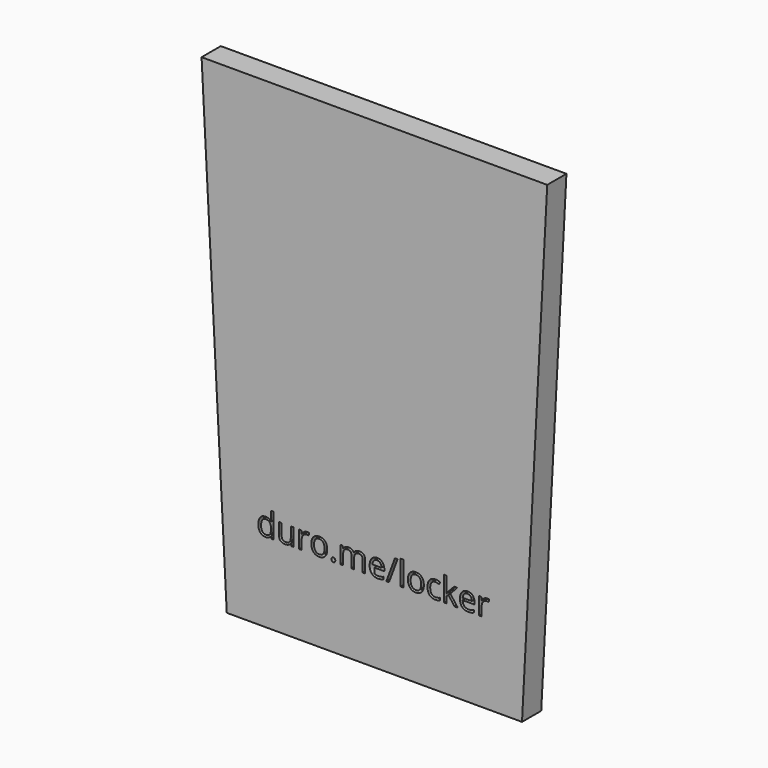
from build123d import *

# Parameters (mm, degrees)
F1_DEPTH = 7
F2_W     = 0.7658614583
F2_H     = 7.1760775948
F3_DEPTH = 2


with BuildPart() as f1:
    # F0 (on Front) → F1 (new body)
    with BuildSketch(Plane.XZ):
        Polygon((60.8623223468, 49.1214316439), (-39.8936776532, 49.1214316439), (-32.5456776532, -91.0867607376), (53.5143223468, -91.0867607376), align=None)
    extrude(amount=F1_DEPTH)

    # F2 (on face) → F3 (cut)
    with BuildSketch(Plane.XZ.offset(7)):
        with BuildLine():
            add(Edge.make_bspline(
                [(10.4843223468, -62.8636571322), (10.8599777761, -62.7154867268), (11.3207362075, -62.7154867268)],
                knots=[0.5461608091, 0.5461608091, 0.5461608091, 1, 1, 1], degree=2))
            Line((10.4843223468, -62.8636571322), (10.4843223468, -63.6192196122))
            add(Edge.make_bspline(
                [(11.3104066695, -63.3573937294), (10.8161838574, -63.3573937294), (10.4843223468, -63.6192196122)],
                knots=[0, 0, 0, 0.8129104659, 0.8129104659, 0.8129104659], degree=2))
            add(Edge.make_bspline(
                [(12.2334246698, -63.742537931), (11.9109955202, -63.3573937294), (11.3104066695, -63.3573937294)],
                knots=[0, 0, 0, 1, 1, 1], degree=2))
            add(Edge.make_bspline(
                [(12.5558538194, -64.8507497907), (12.5558538194, -64.1276821326), (12.2334246698, -63.742537931)],
                knots=[0, 0, 0, 1, 1, 1], degree=2))
            Line((12.5558538194, -64.8507497907), (10.4843223468, -64.8507497907))
            Line((10.4843223468, -64.8507497907), (10.4843223468, -65.4734733657))
            Line((10.4843223468, -65.4734733657), (13.3763142642, -65.4734733657))
            Line((13.3763142642, -65.4734733657), (13.3763142642, -64.9894607292))
            add(Edge.make_bspline(
                [(12.8229461584, -63.3404237742), (13.3763142642, -63.9653608216), (13.3763142642, -64.9894607292)],
                knots=[0, 0, 0, 1, 1, 1], degree=2))
            add(Edge.make_bspline(
                [(11.3207362075, -62.7154867268), (12.2695780527, -62.7154867268), (12.8229461584, -63.3404237742)],
                knots=[0, 0, 0, 1, 1, 1], degree=2))
        make_face()
        with BuildLine():
            Line((10.4843223468, -63.6192196122), (10.4843223468, -62.8636571322))
            add(Edge.make_bspline(
                [(9.7034256905, -63.4348652642), (10.0322497244, -63.0419689002), (10.4843223468, -62.8636571322)],
                knots=[0, 0, 0, 0.5461608091, 0.5461608091, 0.5461608091], degree=2))
            add(Edge.make_bspline(
                [(9.1013611915, -65.3775562274), (9.1013611915, -64.1542438017), (9.7034256905, -63.4348652642)],
                knots=[0, 0, 0, 1, 1, 1], degree=2))
            add(Edge.make_bspline(
                [(9.7499086114, -67.2722886213), (9.1013611915, -66.5890634668), (9.1013611915, -65.3775562274)],
                knots=[0, 0, 0, 1, 1, 1], degree=2))
            add(Edge.make_bspline(
                [(10.4843223468, -67.7720588544), (10.0623900942, -67.6014784428), (9.7499086114, -67.2722886213)],
                knots=[0.5181825211, 0.5181825211, 0.5181825211, 1, 1, 1], degree=2))
            Line((10.4843223468, -67.7720588544), (10.4843223468, -66.955020059))
            add(Edge.make_bspline(
                [(10.3453326932, -66.8244293677), (10.4107324969, -66.8951471486), (10.4843223468, -66.955020059)],
                knots=[0, 0, 0, 0.1533542251, 0.1533542251, 0.1533542251], degree=2))
            add(Edge.make_bspline(
                [(9.8952599672, -65.4734733657), (9.9188703397, -66.3632892797), (10.3453326932, -66.8244293677)],
                knots=[0, 0, 0, 1, 1, 1], degree=2))
            Line((9.8952599672, -65.4734733657), (10.4843223468, -65.4734733657))
            Line((10.4843223468, -65.4734733657), (10.4843223468, -64.8507497907))
            Line((10.4843223468, -64.8507497907), (9.9129677466, -64.8507497907))
            add(Edge.make_bspline(
                [(10.3401679242, -63.7536052931), (9.977896271, -64.1498168568), (9.9129677466, -64.8507497907)],
                knots=[0, 0, 0, 1, 1, 1], degree=2))
            add(Edge.make_bspline(
                [(10.4843223468, -63.6192196122), (10.407945159, -63.6794782563), (10.3401679242, -63.7536052931)],
                knots=[0.8129104659, 0.8129104659, 0.8129104659, 1, 1, 1], degree=2))
        make_face()
        with BuildLine():
            Line((10.4843223468, -66.955020059), (10.4843223468, -65.4734733657))
            Line((10.4843223468, -65.4734733657), (9.8952599672, -65.4734733657))
            add(Edge.make_bspline(
                [(9.8952599672, -65.4734733657), (9.9188703397, -66.3632892797), (10.3453326932, -66.8244293677)],
                knots=[0, 0, 0, 1, 1, 1], degree=2))
            add(Edge.make_bspline(
                [(10.3453326932, -66.8244293677), (10.4107324969, -66.8951471486), (10.4843223468, -66.955020059)],
                knots=[0, 0, 0, 0.1533542251, 0.1533542251, 0.1533542251], degree=2))
        make_face()
        with BuildLine():
            add(Edge.make_bspline(
                [(10.4843223468, -66.955020059), (10.8906009185, -67.2855694558), (11.5465103946, -67.2855694558)],
                knots=[0.1533542251, 0.1533542251, 0.1533542251, 1, 1, 1], degree=2))
            Line((10.4843223468, -66.955020059), (10.4843223468, -67.7720588544))
            add(Edge.make_bspline(
                [(11.5184730773, -67.9555137758), (10.9380998207, -67.9555137758), (10.4843223468, -67.7720588544)],
                knots=[0, 0, 0, 0.5181825211, 0.5181825211, 0.5181825211], degree=2))
            add(Edge.make_bspline(
                [(12.3920568601, -67.8787800652), (12.0305230311, -67.9555137758), (11.5184730773, -67.9555137758)],
                knots=[0, 0, 0, 1, 1, 1], degree=2))
            add(Edge.make_bspline(
                [(13.1593939667, -67.6279198572), (12.7535906892, -67.8020463545), (12.3920568601, -67.8787800652)],
                knots=[0, 0, 0, 1, 1, 1], degree=2))
            Line((13.1593939667, -67.6279198572), (13.1593939667, -66.9446947027))
            add(Edge.make_bspline(
                [(11.5465103946, -67.2855694558), (12.3625438945, -67.2855694558), (13.1593939667, -66.9446947027)],
                knots=[0, 0, 0, 1, 1, 1], degree=2))
        make_face()
        with BuildLine():
            Line((-19.6604994708, -67.1852253727), (-19.6191813189, -67.1852253727))
            Line((-19.6191813189, -67.1852253727), (-19.5173615874, -67.8625479341))
            Line((-19.5173615874, -67.8625479341), (-18.8946380125, -67.8625479341))
            Line((-18.8946380125, -67.8625479341), (-18.8946380125, -60.6864703392))
            Line((-18.8946380125, -60.6864703392), (-19.6604994708, -60.6864703392))
            Line((-19.6604994708, -60.6864703392), (-19.6604994708, -62.7435240442))
            Line((-19.6604994708, -62.7435240442), (-19.6413160431, -63.0991552801))
            Line((-19.6413160431, -63.0991552801), (-19.6088517809, -63.4636404057))
            Line((-19.6088517809, -63.4636404057), (-19.6693533605, -63.4636404057))
            add(Edge.make_bspline(
                [(-21.2468213738, -62.7154867268), (-20.2182945213, -62.7154867268), (-19.6693533605, -63.4636404057)],
                knots=[0, 0, 0, 1, 1, 1], degree=2))
            add(Edge.make_bspline(
                [(-22.7873981801, -63.407565771), (-22.2340300744, -62.7154867268), (-21.2468213738, -62.7154867268)],
                knots=[0, 0, 0, 1, 1, 1], degree=2))
            add(Edge.make_bspline(
                [(-23.3407662858, -65.34951891), (-23.3407662858, -64.0996448152), (-22.7873981801, -63.407565771)],
                knots=[0, 0, 0, 1, 1, 1], degree=2))
            add(Edge.make_bspline(
                [(-22.7896116525, -67.2774533903), (-23.3407662858, -66.5993930048), (-23.3407662858, -65.34951891)],
                knots=[0, 0, 0, 1, 1, 1], degree=2))
            add(Edge.make_bspline(
                [(-21.2468213738, -67.9555137758), (-22.2384570192, -67.9555137758), (-22.7896116525, -67.2774533903)],
                knots=[0, 0, 0, 1, 1, 1], degree=2))
            add(Edge.make_bspline(
                [(-19.6604994708, -67.1852253727), (-20.190257204, -67.9555137758), (-21.2468213738, -67.9555137758)],
                knots=[0, 0, 0, 1, 1, 1], degree=2))
        make_face()
        with BuildLine():
            add(Edge.make_bspline(
                [(-21.1494285872, -67.3136067732), (-20.3658593495, -67.3136067732), (-20.0131794101, -66.8871444197)],
                knots=[0, 0, 0, 1, 1, 1], degree=2))
            add(Edge.make_bspline(
                [(-22.1919740984, -66.8200024229), (-21.8370806866, -67.3136067732), (-21.1494285872, -67.3136067732)],
                knots=[0, 0, 0, 1, 1, 1], degree=2))
            add(Edge.make_bspline(
                [(-22.5468675101, -65.3583727997), (-22.5468675101, -66.3263980726), (-22.1919740984, -66.8200024229)],
                knots=[0, 0, 0, 1, 1, 1], degree=2))
            add(Edge.make_bspline(
                [(-22.1897606259, -63.8805110454), (-22.5468675101, -64.4036283613), (-22.5468675101, -65.3583727997)],
                knots=[0, 0, 0, 1, 1, 1], degree=2))
            add(Edge.make_bspline(
                [(-21.1582824769, -63.3573937294), (-21.8326537417, -63.3573937294), (-22.1897606259, -63.8805110454)],
                knots=[0, 0, 0, 1, 1, 1], degree=2))
            add(Edge.make_bspline(
                [(-20.017606355, -63.8163203451), (-20.3747132392, -63.3573937294), (-21.1582824769, -63.3573937294)],
                knots=[0, 0, 0, 1, 1, 1], degree=2))
            add(Edge.make_bspline(
                [(-19.6604994708, -65.34951891), (-19.6604994708, -64.2752469608), (-20.017606355, -63.8163203451)],
                knots=[0, 0, 0, 1, 1, 1], degree=2))
            Line((-19.6604994708, -65.34951891), (-19.6604994708, -65.5103645727))
            add(Edge.make_bspline(
                [(-20.0131794101, -66.8871444197), (-19.6604994708, -66.4606820663), (-19.6604994708, -65.5103645727)],
                knots=[0, 0, 0, 1, 1, 1], degree=2))
        make_face(mode=Mode.SUBTRACT)
        with BuildLine():
            Line((-16.5513085408, -66.0873430509), (-16.5513085408, -62.8084525686))
            Line((-16.5513085408, -62.8084525686), (-17.3260238888, -62.8084525686))
            Line((-17.3260238888, -62.8084525686), (-17.3260238888, -66.1153803683))
            add(Edge.make_bspline(
                [(-16.8678350973, -67.5172462361), (-17.3260238888, -67.0789786964), (-17.3260238888, -66.1153803683)],
                knots=[0, 0, 0, 1, 1, 1], degree=2))
            add(Edge.make_bspline(
                [(-15.4873661296, -67.9555137758), (-16.4096463058, -67.9555137758), (-16.8678350973, -67.5172462361)],
                knots=[0, 0, 0, 1, 1, 1], degree=2))
            add(Edge.make_bspline(
                [(-14.5340973395, -67.7570390819), (-14.9517058033, -67.9555137758), (-15.4873661296, -67.9555137758)],
                knots=[0, 0, 0, 1, 1, 1], degree=2))
            add(Edge.make_bspline(
                [(-13.8818607989, -67.1852253727), (-14.1164888757, -67.558564388), (-14.5340973395, -67.7570390819)],
                knots=[0, 0, 0, 1, 1, 1], degree=2))
            Line((-13.8818607989, -67.1852253727), (-13.840542647, -67.1852253727))
            Line((-13.840542647, -67.1852253727), (-13.7298690259, -67.8625479341))
            Line((-13.7298690259, -67.8625479341), (-13.0982915612, -67.8625479341))
            Line((-13.0982915612, -67.8625479341), (-13.0982915612, -62.8084525686))
            Line((-13.0982915612, -62.8084525686), (-13.8641530195, -62.8084525686))
            Line((-13.8641530195, -62.8084525686), (-13.8641530195, -65.464619476))
            add(Edge.make_bspline(
                [(-14.2301137934, -66.8805040025), (-13.8641530195, -66.4474012317), (-13.8641530195, -65.464619476)],
                knots=[0, 0, 0, 1, 1, 1], degree=2))
            add(Edge.make_bspline(
                [(-15.389973343, -67.3136067732), (-14.5960745673, -67.3136067732), (-14.2301137934, -66.8805040025)],
                knots=[0, 0, 0, 1, 1, 1], degree=2))
            add(Edge.make_bspline(
                [(-16.2701975431, -67.0096232271), (-15.9890865454, -67.3136067732), (-15.389973343, -67.3136067732)],
                knots=[0, 0, 0, 1, 1, 1], degree=2))
            add(Edge.make_bspline(
                [(-16.5513085408, -66.0873430509), (-16.5513085408, -66.7056396811), (-16.2701975431, -67.0096232271)],
                knots=[0, 0, 0, 1, 1, 1], degree=2))
        make_face()
        with BuildLine():
            add(Edge.make_bspline(
                [(-9.1686401865, -62.7154867268), (-8.8321923783, -62.7154867268), (-8.5651000393, -62.7715613615)],
                knots=[0, 0, 0, 1, 1, 1], degree=2))
            add(Edge.make_bspline(
                [(-10.0407483211, -62.98331689), (-9.6437989333, -62.7154867268), (-9.1686401865, -62.7154867268)],
                knots=[0, 0, 0, 1, 1, 1], degree=2))
            add(Edge.make_bspline(
                [(-10.7180708825, -63.7440135793), (-10.437697709, -63.2511470532), (-10.0407483211, -62.98331689)],
                knots=[0, 0, 0, 1, 1, 1], degree=2))
            Line((-10.7180708825, -63.7440135793), (-10.7549620896, -63.7440135793))
            Line((-10.7549620896, -63.7440135793), (-10.8435009865, -62.8084525686))
            Line((-10.8435009865, -62.8084525686), (-11.4750784511, -62.8084525686))
            Line((-11.4750784511, -62.8084525686), (-11.4750784511, -67.8625479341))
            Line((-11.4750784511, -67.8625479341), (-10.7092169928, -67.8625479341))
            Line((-10.7092169928, -67.8625479341), (-10.7092169928, -65.1503063919))
            add(Edge.make_bspline(
                [(-10.2739007497, -63.910024011), (-10.7092169928, -64.4080553062), (-10.7092169928, -65.1503063919)],
                knots=[0, 0, 0, 1, 1, 1], degree=2))
            add(Edge.make_bspline(
                [(-9.2247148213, -63.4119927159), (-9.8385845065, -63.4119927159), (-10.2739007497, -63.910024011)],
                knots=[0, 0, 0, 1, 1, 1], degree=2))
            add(Edge.make_bspline(
                [(-8.6713467155, -63.4813481851), (-8.9841841513, -63.4119927159), (-9.2247148213, -63.4119927159)],
                knots=[0, 0, 0, 1, 1, 1], degree=2))
            Line((-8.6713467155, -63.4813481851), (-8.5651000393, -62.7715613615))
        make_face()
        with BuildLine():
            add(Edge.make_bspline(
                [(-3.2571931693, -65.3303354823), (-3.2571931693, -66.5669287426), (-3.8791789201, -67.2612212592)],
                knots=[0, 0, 0, 1, 1, 1], degree=2))
            add(Edge.make_bspline(
                [(-3.8821302167, -63.4215844297), (-3.2571931693, -64.1276821326), (-3.2571931693, -65.3303354823)],
                knots=[0, 0, 0, 1, 1, 1], degree=2))
            add(Edge.make_bspline(
                [(-5.5665827305, -62.7154867268), (-4.5070672641, -62.7154867268), (-3.8821302167, -63.4215844297)],
                knots=[0, 0, 0, 1, 1, 1], degree=2))
            add(Edge.make_bspline(
                [(-7.2827616823, -63.4053522986), (-6.6644650522, -62.7154867268), (-5.5665827305, -62.7154867268)],
                knots=[0, 0, 0, 1, 1, 1], degree=2))
            add(Edge.make_bspline(
                [(-7.9010583124, -65.3303354823), (-7.9010583124, -64.0952178704), (-7.2827616823, -63.4053522986)],
                knots=[0, 0, 0, 1, 1, 1], degree=2))
            add(Edge.make_bspline(
                [(-7.6147825457, -66.7233474604), (-7.9010583124, -66.1286612028), (-7.9010583124, -65.3303354823)],
                knots=[0, 0, 0, 1, 1, 1], degree=2))
            add(Edge.make_bspline(
                [(-6.8031759907, -67.6367737469), (-7.328506779, -67.318033718), (-7.6147825457, -66.7233474604)],
                knots=[0, 0, 0, 1, 1, 1], degree=2))
            add(Edge.make_bspline(
                [(-5.5990469927, -67.9555137758), (-6.2778452023, -67.9555137758), (-6.8031759907, -67.6367737469)],
                knots=[0, 0, 0, 1, 1, 1], degree=2))
            add(Edge.make_bspline(
                [(-3.8791789201, -67.2612212592), (-4.5011646709, -67.9555137758), (-5.5990469927, -67.9555137758)],
                knots=[0, 0, 0, 1, 1, 1], degree=2))
        make_face()
        with BuildLine():
            add(Edge.make_bspline(
                [(-7.1071595367, -65.3303354823), (-7.1071595367, -66.2998364035), (-6.7198018627, -66.8067215884)],
                knots=[0, 0, 0, 1, 1, 1], degree=2))
            add(Edge.make_bspline(
                [(-6.7242288076, -63.8598519694), (-7.1071595367, -64.3534563197), (-7.1071595367, -65.3303354823)],
                knots=[0, 0, 0, 1, 1, 1], degree=2))
            add(Edge.make_bspline(
                [(-5.590193103, -63.3662476191), (-6.3412980784, -63.3662476191), (-6.7242288076, -63.8598519694)],
                knots=[0, 0, 0, 1, 1, 1], degree=2))
            add(Edge.make_bspline(
                [(-4.4391874431, -63.8664923867), (-4.8287585895, -63.3662476191), (-5.590193103, -63.3662476191)],
                knots=[0, 0, 0, 1, 1, 1], degree=2))
            add(Edge.make_bspline(
                [(-4.0496162967, -65.3303354823), (-4.0496162967, -64.3667371543), (-4.4391874431, -63.8664923867)],
                knots=[0, 0, 0, 1, 1, 1], degree=2))
            add(Edge.make_bspline(
                [(-4.4391874431, -66.8089350608), (-4.0496162967, -66.3042633484), (-4.0496162967, -65.3303354823)],
                knots=[0, 0, 0, 1, 1, 1], degree=2))
            add(Edge.make_bspline(
                [(-5.5813392133, -67.3136067732), (-4.8287585895, -67.3136067732), (-4.4391874431, -66.8089350608)],
                knots=[0, 0, 0, 1, 1, 1], degree=2))
            add(Edge.make_bspline(
                [(-6.7198018627, -66.8067215884), (-6.3324441888, -67.3136067732), (-5.5813392133, -67.3136067732)],
                knots=[0, 0, 0, 1, 1, 1], degree=2))
        make_face(mode=Mode.SUBTRACT)
        with BuildLine():
            add(Edge.make_bspline(
                [(-2.0250268539, -67.3741083528), (-2.0250268539, -67.0642222136), (-1.884102443, -66.9055900233)],
                knots=[0, 0, 0, 1, 1, 1], degree=2))
            add(Edge.make_bspline(
                [(-1.8708216085, -67.8514805719), (-2.0250268539, -67.7061292162), (-2.0250268539, -67.3741083528)],
                knots=[0, 0, 0, 1, 1, 1], degree=2))
            add(Edge.make_bspline(
                [(-1.4805126379, -67.9968319277), (-1.716616363, -67.9968319277), (-1.8708216085, -67.8514805719)],
                knots=[0, 0, 0, 1, 1, 1], degree=2))
            add(Edge.make_bspline(
                [(-1.0658554707, -67.8352484408), (-1.2178472437, -67.9968319277), (-1.4805126379, -67.9968319277)],
                knots=[0, 0, 0, 1, 1, 1], degree=2))
            add(Edge.make_bspline(
                [(-0.9138636977, -67.3741083528), (-0.9138636977, -67.673664954), (-1.0658554707, -67.8352484408)],
                knots=[0, 0, 0, 1, 1, 1], degree=2))
            add(Edge.make_bspline(
                [(-1.0636419983, -66.9055900233), (-0.9138636977, -67.0642222136), (-0.9138636977, -67.3741083528)],
                knots=[0, 0, 0, 1, 1, 1], degree=2))
            add(Edge.make_bspline(
                [(-1.4805126379, -66.7469578329), (-1.2134202989, -66.7469578329), (-1.0636419983, -66.9055900233)],
                knots=[0, 0, 0, 1, 1, 1], degree=2))
            add(Edge.make_bspline(
                [(-1.884102443, -66.9055900233), (-1.7431780321, -66.7469578329), (-1.4805126379, -66.7469578329)],
                knots=[0, 0, 0, 1, 1, 1], degree=2))
        make_face()
        with BuildLine():
            Line((7.04135619, -64.574803562), (7.04135619, -67.8625479341))
            Line((7.04135619, -67.8625479341), (7.805742, -67.8625479341))
            Line((7.805742, -67.8625479341), (7.805742, -64.5659496723))
            add(Edge.make_bspline(
                [(7.3792796466, -63.155967739), (7.805742, -63.5964487511), (7.805742, -64.5659496723)],
                knots=[0, 0, 0, 1, 1, 1], degree=2))
            add(Edge.make_bspline(
                [(6.0954656413, -62.7154867268), (6.9528172931, -62.7154867268), (7.3792796466, -63.155967739)],
                knots=[0, 0, 0, 1, 1, 1], degree=2))
            add(Edge.make_bspline(
                [(5.1178486546, -62.9464256829), (5.5465244805, -62.7154867268), (6.0954656413, -62.7154867268)],
                knots=[0, 0, 0, 1, 1, 1], degree=2))
            add(Edge.make_bspline(
                [(4.4633986415, -63.5743140269), (4.6891728287, -63.1773646391), (5.1178486546, -62.9464256829)],
                knots=[0, 0, 0, 1, 1, 1], degree=2))
            Line((4.4633986415, -63.5743140269), (4.4265074345, -63.5743140269))
            add(Edge.make_bspline(
                [(2.8770767385, -62.7154867268), (4.0620223089, -62.7154867268), (4.4265074345, -63.5743140269)],
                knots=[0, 0, 0, 1, 1, 1], degree=2))
            add(Edge.make_bspline(
                [(1.9939012418, -62.9235531346), (2.3886371572, -62.7154867268), (2.8770767385, -62.7154867268)],
                knots=[0, 0, 0, 1, 1, 1], degree=2))
            add(Edge.make_bspline(
                [(1.382245029, -63.5005316128), (1.5991653264, -63.1316195423), (1.9939012418, -62.9235531346)],
                knots=[0, 0, 0, 1, 1, 1], degree=2))
            Line((1.382245029, -63.5005316128), (1.3453538219, -63.5005316128))
            Line((1.3453538219, -63.5005316128), (1.2213993662, -62.8084525686))
            Line((1.2213993662, -62.8084525686), (0.5986757913, -62.8084525686))
            Line((0.5986757913, -62.8084525686), (0.5986757913, -67.8625479341))
            Line((0.5986757913, -67.8625479341), (1.3645372496, -67.8625479341))
            Line((1.3645372496, -67.8625479341), (1.3645372496, -65.2108079715))
            add(Edge.make_bspline(
                [(1.6987715854, -63.7971369175), (1.3645372496, -64.2280262158), (1.3645372496, -65.2108079715)],
                knots=[0, 0, 0, 1, 1, 1], degree=2))
            add(Edge.make_bspline(
                [(2.7516466346, -63.3662476191), (2.0330059213, -63.3662476191), (1.6987715854, -63.7971369175)],
                knots=[0, 0, 0, 1, 1, 1], degree=2))
            add(Edge.make_bspline(
                [(3.5588262447, -63.6680176928), (3.3005877954, -63.3662476191), (2.7516466346, -63.3662476191)],
                knots=[0, 0, 0, 1, 1, 1], degree=2))
            add(Edge.make_bspline(
                [(3.8170646941, -64.574803562), (3.8170646941, -63.9697877664), (3.5588262447, -63.6680176928)],
                knots=[0, 0, 0, 1, 1, 1], degree=2))
            Line((3.8170646941, -64.574803562), (3.8170646941, -67.8625479341))
            Line((3.8170646941, -67.8625479341), (4.5829261524, -67.8625479341))
            Line((4.5829261524, -67.8625479341), (4.5829261524, -65.0396327708))
            add(Edge.make_bspline(
                [(4.9245387296, -63.7764778415), (4.5829261524, -64.1867080639), (4.5829261524, -65.0396327708)],
                knots=[0, 0, 0, 1, 1, 1], degree=2))
            add(Edge.make_bspline(
                [(5.9803650753, -63.3662476191), (5.2661513069, -63.3662476191), (4.9245387296, -63.7764778415)],
                knots=[0, 0, 0, 1, 1, 1], degree=2))
            add(Edge.make_bspline(
                [(6.7831177407, -63.6680176928), (6.5248792913, -63.3662476191), (5.9803650753, -63.3662476191)],
                knots=[0, 0, 0, 1, 1, 1], degree=2))
            add(Edge.make_bspline(
                [(7.04135619, -64.574803562), (7.04135619, -63.9697877664), (6.7831177407, -63.6680176928)],
                knots=[0, 0, 0, 1, 1, 1], degree=2))
        make_face()
        Polygon((14.7280080904, -67.8625479341), (17.2410371144, -61.1203109341), (16.4766513044, -61.1203109341), (13.9636222803, -67.8625479341), align=None)
        with Locations((18.5329671852, -64.2745091366)):
            Rectangle(F2_W, F2_H)
        with BuildLine():
            add(Edge.make_bspline(
                [(24.9011273457, -65.3303354823), (24.9011273457, -66.5669287426), (24.2791415949, -67.2612212592)],
                knots=[0, 0, 0, 1, 1, 1], degree=2))
            add(Edge.make_bspline(
                [(24.2761902983, -63.4215844297), (24.9011273457, -64.1276821326), (24.9011273457, -65.3303354823)],
                knots=[0, 0, 0, 1, 1, 1], degree=2))
            add(Edge.make_bspline(
                [(22.5917377845, -62.7154867268), (23.6512532509, -62.7154867268), (24.2761902983, -63.4215844297)],
                knots=[0, 0, 0, 1, 1, 1], degree=2))
            add(Edge.make_bspline(
                [(20.8755588327, -63.4053522986), (21.4938554628, -62.7154867268), (22.5917377845, -62.7154867268)],
                knots=[0, 0, 0, 1, 1, 1], degree=2))
            add(Edge.make_bspline(
                [(20.2572622026, -65.3303354823), (20.2572622026, -64.0952178704), (20.8755588327, -63.4053522986)],
                knots=[0, 0, 0, 1, 1, 1], degree=2))
            add(Edge.make_bspline(
                [(20.5435379693, -66.7233474604), (20.2572622026, -66.1286612028), (20.2572622026, -65.3303354823)],
                knots=[0, 0, 0, 1, 1, 1], degree=2))
            add(Edge.make_bspline(
                [(21.3551445243, -67.6367737469), (20.829813736, -67.318033718), (20.5435379693, -66.7233474604)],
                knots=[0, 0, 0, 1, 1, 1], degree=2))
            add(Edge.make_bspline(
                [(22.5592735223, -67.9555137758), (21.8804753127, -67.9555137758), (21.3551445243, -67.6367737469)],
                knots=[0, 0, 0, 1, 1, 1], degree=2))
            add(Edge.make_bspline(
                [(24.2791415949, -67.2612212592), (23.6571558441, -67.9555137758), (22.5592735223, -67.9555137758)],
                knots=[0, 0, 0, 1, 1, 1], degree=2))
        make_face()
        with BuildLine():
            add(Edge.make_bspline(
                [(21.0511609783, -65.3303354823), (21.0511609783, -66.2998364035), (21.4385186523, -66.8067215884)],
                knots=[0, 0, 0, 1, 1, 1], degree=2))
            add(Edge.make_bspline(
                [(21.4340917074, -63.8598519694), (21.0511609783, -64.3534563197), (21.0511609783, -65.3303354823)],
                knots=[0, 0, 0, 1, 1, 1], degree=2))
            add(Edge.make_bspline(
                [(22.568127412, -63.3662476191), (21.8170224366, -63.3662476191), (21.4340917074, -63.8598519694)],
                knots=[0, 0, 0, 1, 1, 1], degree=2))
            add(Edge.make_bspline(
                [(23.7191330719, -63.8664923867), (23.3295619255, -63.3662476191), (22.568127412, -63.3662476191)],
                knots=[0, 0, 0, 1, 1, 1], degree=2))
            add(Edge.make_bspline(
                [(24.1087042183, -65.3303354823), (24.1087042183, -64.3667371543), (23.7191330719, -63.8664923867)],
                knots=[0, 0, 0, 1, 1, 1], degree=2))
            add(Edge.make_bspline(
                [(23.7191330719, -66.8089350608), (24.1087042183, -66.3042633484), (24.1087042183, -65.3303354823)],
                knots=[0, 0, 0, 1, 1, 1], degree=2))
            add(Edge.make_bspline(
                [(22.5769813017, -67.3136067732), (23.3295619255, -67.3136067732), (23.7191330719, -66.8089350608)],
                knots=[0, 0, 0, 1, 1, 1], degree=2))
            add(Edge.make_bspline(
                [(21.4385186523, -66.8067215884), (21.8258763262, -67.3136067732), (22.5769813017, -67.3136067732)],
                knots=[0, 0, 0, 1, 1, 1], degree=2))
        make_face(mode=Mode.SUBTRACT)
        with BuildLine():
            add(Edge.make_bspline(
                [(28.2641297801, -67.9555137758), (27.1662474584, -67.9555137758), (26.5641829594, -67.2796668627)],
                knots=[0, 0, 0, 1, 1, 1], degree=2))
            add(Edge.make_bspline(
                [(29.540565544, -67.6913727334), (29.0344181833, -67.9555137758), (28.2641297801, -67.9555137758)],
                knots=[0, 0, 0, 1, 1, 1], degree=2))
            Line((29.540565544, -67.6913727334), (29.540565544, -67.014050172))
            add(Edge.make_bspline(
                [(28.2449463525, -67.2855694558), (28.8765238171, -67.2855694558), (29.540565544, -67.014050172)],
                knots=[0, 0, 0, 1, 1, 1], degree=2))
            add(Edge.make_bspline(
                [(27.1315697238, -66.7875381607), (27.5071222115, -67.2855694558), (28.2449463525, -67.2855694558)],
                knots=[0, 0, 0, 1, 1, 1], degree=2))
            add(Edge.make_bspline(
                [(26.756017236, -65.3583727997), (26.756017236, -66.2895068656), (27.1315697238, -66.7875381607)],
                knots=[0, 0, 0, 1, 1, 1], degree=2))
            add(Edge.make_bspline(
                [(28.2965940423, -63.3942849365), (26.756017236, -63.3942849365), (26.756017236, -65.3583727997)],
                knots=[0, 0, 0, 1, 1, 1], degree=2))
            add(Edge.make_bspline(
                [(28.8263517755, -63.4606891092), (28.5267951743, -63.3942849365), (28.2965940423, -63.3942849365)],
                knots=[0, 0, 0, 1, 1, 1], degree=2))
            add(Edge.make_bspline(
                [(29.3797198812, -63.6289130133), (29.1259083768, -63.5270932819), (28.8263517755, -63.4606891092)],
                knots=[0, 0, 0, 1, 1, 1], degree=2))
            Line((29.3797198812, -63.6289130133), (29.6143479581, -62.9796277693))
            add(Edge.make_bspline(
                [(29.043272073, -62.7944339099), (29.4077571986, -62.873381093), (29.6143479581, -62.9796277693)],
                knots=[0, 0, 0, 1, 1, 1], degree=2))
            add(Edge.make_bspline(
                [(28.3143018217, -62.7154867268), (28.6787869473, -62.7154867268), (29.043272073, -62.7944339099)],
                knots=[0, 0, 0, 1, 1, 1], degree=2))
            add(Edge.make_bspline(
                [(26.5737746732, -63.407565771), (27.1854308861, -62.7154867268), (28.3143018217, -62.7154867268)],
                knots=[0, 0, 0, 1, 1, 1], degree=2))
            add(Edge.make_bspline(
                [(25.9621184604, -65.3672266894), (25.9621184604, -64.0996448152), (26.5737746732, -63.407565771)],
                knots=[0, 0, 0, 1, 1, 1], degree=2))
            add(Edge.make_bspline(
                [(26.5641829594, -67.2796668627), (25.9621184604, -66.6038199496), (25.9621184604, -65.3672266894)],
                knots=[0, 0, 0, 1, 1, 1], degree=2))
        make_face()
        with BuildLine():
            add(Edge.make_bspline(
                [(31.4972751657, -65.2757364959), (31.6950120355, -64.9938876741), (32.100815313, -64.537912355)],
                knots=[0, 0, 0, 1, 1, 1], degree=2))
            Line((31.4972751657, -65.2757364959), (31.4603839587, -65.2757364959))
            add(Edge.make_bspline(
                [(31.4972751657, -64.4921672582), (31.4972751657, -64.7445031144), (31.4603839587, -65.2757364959)],
                knots=[0, 0, 0, 1, 1, 1], degree=2))
            Line((31.4972751657, -64.4921672582), (31.4972751657, -60.6864703392))
            Line((31.4972751657, -60.6864703392), (30.7402675971, -60.6864703392))
            Line((30.7402675971, -60.6864703392), (30.7402675971, -67.8625479341))
            Line((30.7402675971, -67.8625479341), (31.4972751657, -67.8625479341))
            Line((31.4972751657, -67.8625479341), (31.4972751657, -65.972242485))
            Line((31.4972751657, -65.972242485), (32.0727779957, -65.4734733657))
            Line((32.0727779957, -65.4734733657), (33.8583124168, -67.8625479341))
            Line((33.8583124168, -67.8625479341), (34.7850195378, -67.8625479341))
            Line((34.7850195378, -67.8625479341), (32.5936818392, -64.9614234119))
            Line((32.5936818392, -64.9614234119), (34.6418816545, -62.8084525686))
            Line((34.6418816545, -62.8084525686), (33.7328823128, -62.8084525686))
            Line((33.7328823128, -62.8084525686), (32.100815313, -64.537912355))
        make_face()
        with BuildLine():
            add(Edge.make_bspline(
                [(37.8322332399, -67.9555137758), (36.7122161939, -67.9555137758), (36.0636687741, -67.2722886213)],
                knots=[0, 0, 0, 1, 1, 1], degree=2))
            add(Edge.make_bspline(
                [(38.7058170228, -67.8787800652), (38.3442831937, -67.9555137758), (37.8322332399, -67.9555137758)],
                knots=[0, 0, 0, 1, 1, 1], degree=2))
            add(Edge.make_bspline(
                [(39.4731541294, -67.6279198572), (39.0673508518, -67.8020463545), (38.7058170228, -67.8787800652)],
                knots=[0, 0, 0, 1, 1, 1], degree=2))
            Line((39.4731541294, -67.6279198572), (39.4731541294, -66.9446947027))
            add(Edge.make_bspline(
                [(37.8602705573, -67.2855694558), (38.6763040571, -67.2855694558), (39.4731541294, -66.9446947027)],
                knots=[0, 0, 0, 1, 1, 1], degree=2))
            add(Edge.make_bspline(
                [(36.6590928558, -66.8244293677), (37.0855552093, -67.2855694558), (37.8602705573, -67.2855694558)],
                knots=[0, 0, 0, 1, 1, 1], degree=2))
            add(Edge.make_bspline(
                [(36.2090201298, -65.4734733657), (36.2326305023, -66.3632892797), (36.6590928558, -66.8244293677)],
                knots=[0, 0, 0, 1, 1, 1], degree=2))
            Line((36.2090201298, -65.4734733657), (39.6900744268, -65.4734733657))
            Line((39.6900744268, -65.4734733657), (39.6900744268, -64.9894607292))
            add(Edge.make_bspline(
                [(39.1367063211, -63.3404237742), (39.6900744268, -63.9653608216), (39.6900744268, -64.9894607292)],
                knots=[0, 0, 0, 1, 1, 1], degree=2))
            add(Edge.make_bspline(
                [(37.6344963701, -62.7154867268), (38.5833382154, -62.7154867268), (39.1367063211, -63.3404237742)],
                knots=[0, 0, 0, 1, 1, 1], degree=2))
            add(Edge.make_bspline(
                [(36.0171858532, -63.4348652642), (36.6192503522, -62.7154867268), (37.6344963701, -62.7154867268)],
                knots=[0, 0, 0, 1, 1, 1], degree=2))
            add(Edge.make_bspline(
                [(35.4151213542, -65.3775562274), (35.4151213542, -64.1542438017), (36.0171858532, -63.4348652642)],
                knots=[0, 0, 0, 1, 1, 1], degree=2))
            add(Edge.make_bspline(
                [(36.0636687741, -67.2722886213), (35.4151213542, -66.5890634668), (35.4151213542, -65.3775562274)],
                knots=[0, 0, 0, 1, 1, 1], degree=2))
        make_face()
        with BuildLine():
            add(Edge.make_bspline(
                [(37.6241668322, -63.3573937294), (37.01619974, -63.3573937294), (36.6539280868, -63.7536052931)],
                knots=[0, 0, 0, 1, 1, 1], degree=2))
            add(Edge.make_bspline(
                [(38.5471848325, -63.742537931), (38.2247556829, -63.3573937294), (37.6241668322, -63.3573937294)],
                knots=[0, 0, 0, 1, 1, 1], degree=2))
            add(Edge.make_bspline(
                [(38.8696139821, -64.8507497907), (38.8696139821, -64.1276821326), (38.5471848325, -63.742537931)],
                knots=[0, 0, 0, 1, 1, 1], degree=2))
            Line((38.8696139821, -64.8507497907), (36.2267279092, -64.8507497907))
            add(Edge.make_bspline(
                [(36.6539280868, -63.7536052931), (36.2916564336, -64.1498168568), (36.2267279092, -64.8507497907)],
                knots=[0, 0, 0, 1, 1, 1], degree=2))
        make_face(mode=Mode.SUBTRACT)
        with BuildLine():
            add(Edge.make_bspline(
                [(43.3024614209, -62.7154867268), (43.6389092291, -62.7154867268), (43.9060015682, -62.7715613615)],
                knots=[0, 0, 0, 1, 1, 1], degree=2))
            add(Edge.make_bspline(
                [(42.4303532863, -62.98331689), (42.8273026741, -62.7154867268), (43.3024614209, -62.7154867268)],
                knots=[0, 0, 0, 1, 1, 1], degree=2))
            add(Edge.make_bspline(
                [(41.7530307249, -63.7440135793), (42.0334038984, -63.2511470532), (42.4303532863, -62.98331689)],
                knots=[0, 0, 0, 1, 1, 1], degree=2))
            Line((41.7530307249, -63.7440135793), (41.7161395178, -63.7440135793))
            Line((41.7161395178, -63.7440135793), (41.6276006209, -62.8084525686))
            Line((41.6276006209, -62.8084525686), (40.9960231563, -62.8084525686))
            Line((40.9960231563, -62.8084525686), (40.9960231563, -67.8625479341))
            Line((40.9960231563, -67.8625479341), (41.7618846146, -67.8625479341))
            Line((41.7618846146, -67.8625479341), (41.7618846146, -65.1503063919))
            add(Edge.make_bspline(
                [(42.1972008577, -63.910024011), (41.7618846146, -64.4080553062), (41.7618846146, -65.1503063919)],
                knots=[0, 0, 0, 1, 1, 1], degree=2))
            add(Edge.make_bspline(
                [(43.2463867861, -63.4119927159), (42.6325171009, -63.4119927159), (42.1972008577, -63.910024011)],
                knots=[0, 0, 0, 1, 1, 1], degree=2))
            add(Edge.make_bspline(
                [(43.7997548919, -63.4813481851), (43.4869174561, -63.4119927159), (43.2463867861, -63.4119927159)],
                knots=[0, 0, 0, 1, 1, 1], degree=2))
            Line((43.7997548919, -63.4813481851), (43.9060015682, -62.7715613615))
        make_face()
    extrude(amount=-F3_DEPTH, mode=Mode.SUBTRACT)


solid = f1.part
